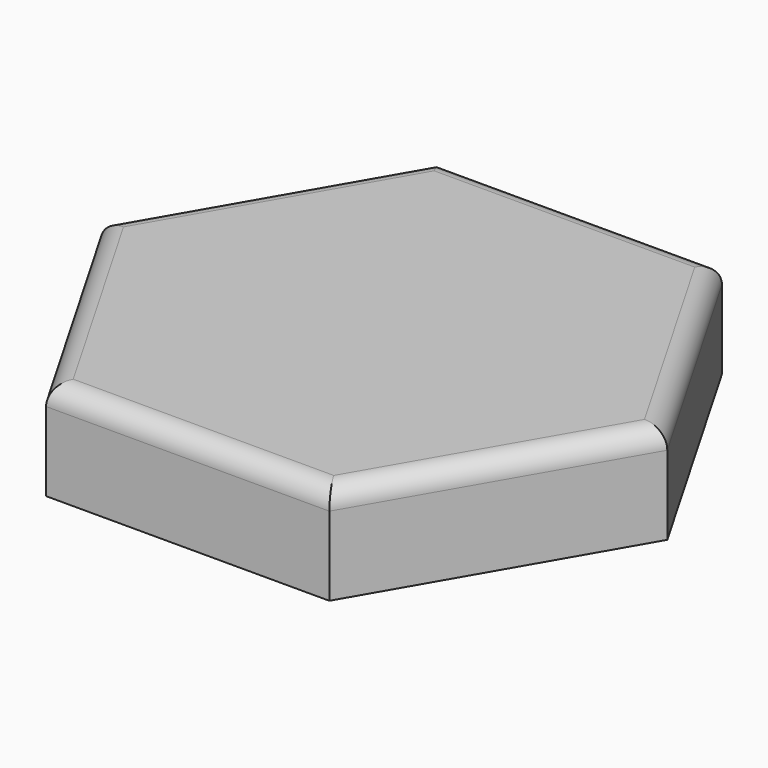
from build123d import *

# Parameters (mm, degrees)
F1_DEPTH = 25.4
F2_R     = 5.08


with BuildPart() as f1:
    # F0 (on Top) → F1 (new body)
    with BuildSketch(Plane.XY):
        Polygon((36.478891, 63.183293), (-36.478891, 63.183293), (-72.957782, 0), (-36.478891, -63.183293), (36.478891, -63.183293), (72.957782, 0), align=None)
    extrude(amount=F1_DEPTH)

    # F2
    f2_edges = [f1.edges().sort_by_distance(p)[0] for p in [
        (0, 63.183293, 25.4),
        (-54.718337, 31.591646, 25.4),
        (-54.718337, -31.591646, 25.4),
        (0, -63.183293, 25.4),
        (54.718337, -31.591646, 25.4),
        (54.718337, 31.591646, 25.4),
    ]]
    fillet(f2_edges, radius=F2_R)


solid = f1.part
